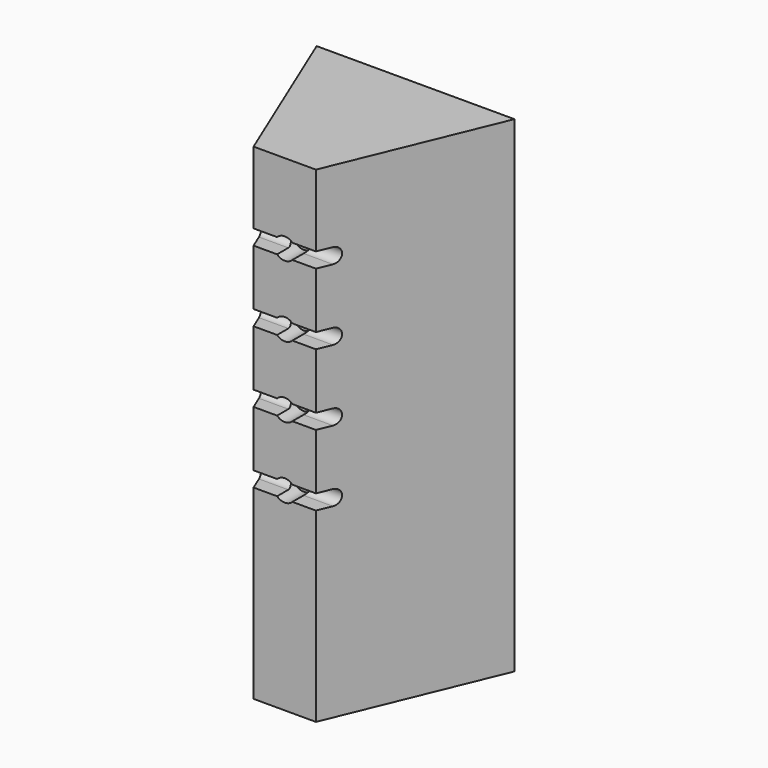
from build123d import *

# Parameters (mm, degrees)
PAD_DEPTH              = 226
POCKET_DEPTH           = 45.978705
POCKET_DEPTH_BACK      = 45.978705
LINEARPATTERN_COUNT    = 4
LINEARPATTERN_PITCH    = 33
LINEARPATTERN001_COUNT = 4
LINEARPATTERN001_PITCH = 33


with BuildPart() as part:
    # Sketch → Pad (new body)
    with BuildSketch(Plane.XY):
        Polygon((45.977705, 111), (-45.977705, 111), (-14.497475, 35), (14.497475, 35), align=None)
    extrude(amount=PAD_DEPTH)

    # Sketch001 → Pocket (cut, two sides)
    with BuildSketch(Plane.YZ) as pocket_sk:
        with BuildLine():
            ThreePointArc((0, 93.52), (-3.52, 90), (0, 86.48))
            Line((0, 86.48), (41.5, 86.48))
            ThreePointArc((41.5, 86.48), (45.02, 90), (41.5, 93.52))
            Line((0, 93.52), (41.5, 93.52))
        make_face()
    pocket = extrude(amount=-POCKET_DEPTH, mode=Mode.SUBTRACT) + extrude(pocket_sk.sketch, amount=POCKET_DEPTH_BACK, mode=Mode.SUBTRACT)

    # LinearPattern: Pocket ×4
    with Locations(*[(0, 0, i * LINEARPATTERN_PITCH) for i in range(1, LINEARPATTERN_COUNT)]):
        add(pocket, mode=Mode.SUBTRACT)

    # Sketch002 → Groove (revolve, cut)
    with BuildSketch(Plane.YZ):
        Polygon((35, 90), (111, 90), (111, 92), (46.02, 92), (46.02, 95), (35, 95), align=None)
    groove = revolve(axis=Axis((0, 35, 90), (0, 1, 0)), mode=Mode.SUBTRACT)

    # LinearPattern001: Groove ×4
    with Locations(*[(0, 0, i * LINEARPATTERN001_PITCH) for i in range(1, LINEARPATTERN001_COUNT)]):
        add(groove, mode=Mode.SUBTRACT)


solid = part.part
